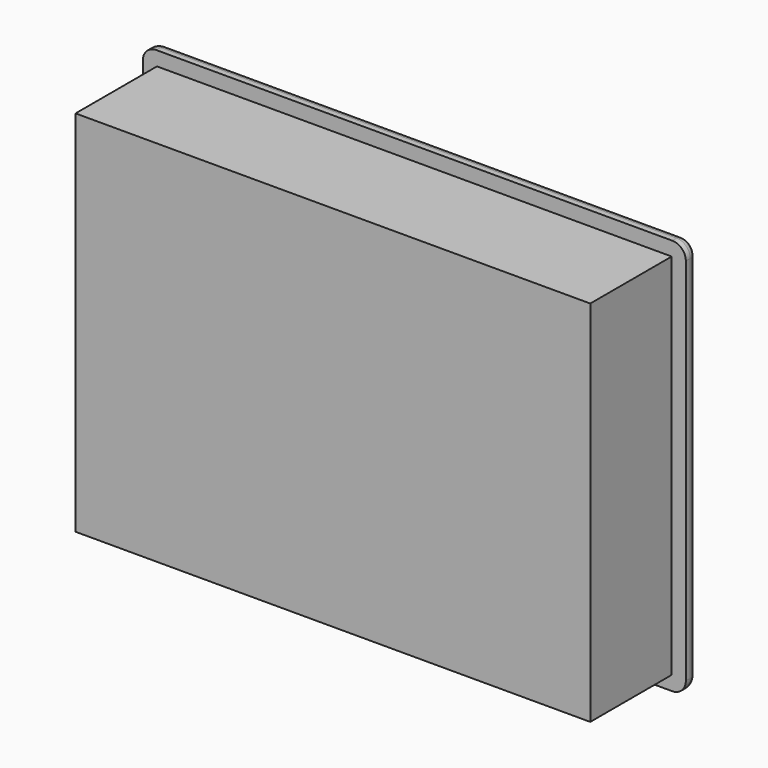
from build123d import *

# Parameters (mm, degrees)
F0_W     = 200.35
F0_H     = 146.35
F1_DEPTH = 5
F2_R     = 5
F3_W     = 189.9
F3_H     = 135.9
F4_DEPTH = 42.55
F5_R     = 3
F6_W     = 150
F6_H     = 100
F7_DEPTH = 1


with BuildPart() as f1:
    # F0 (on Front) → F1 (new body)
    with BuildSketch(Plane.XZ):
        Rectangle(F0_W, F0_H)
    extrude(amount=F1_DEPTH)

    # F2
    f2_edges = [f1.edges().sort_by_distance(p)[0] for p in [
        (100.175, -2.5, 73.175),
        (-100.175, -2.5, 73.175),
        (-100.175, -2.5, -73.175),
        (100.175, -2.5, -73.175),
    ]]
    fillet(f2_edges, radius=F2_R)

    # F3 (on face) → F4 (join)
    with BuildSketch(Plane(origin=(0, 0, 0), x_dir=(-1, 0, 0), z_dir=(0, 1, 0))):
        Rectangle(F3_W, F3_H)
    extrude(amount=-F4_DEPTH)

    # F5
    f5_edges = [f1.edges().sort_by_distance(p)[0] for p in [
        (100.175, 0, 0),
        (98.710534, 0, 71.710534),
        (0, 0, 73.175),
        (-98.710534, 0, 71.710534),
        (-100.175, 0, 0),
        (-98.710534, 0, -71.710534),
        (0, 0, -73.175),
        (98.710534, 0, -71.710534),
    ]]
    fillet(f5_edges, radius=F5_R)

    # F6 (on face) → F7 (cut)
    with BuildSketch(Plane(origin=(0, 0, 0), x_dir=(-1, 0, 0), z_dir=(0, 1, 0))):
        Rectangle(F6_W, F6_H)
    extrude(amount=-F7_DEPTH, mode=Mode.SUBTRACT)


solid = f1.part
